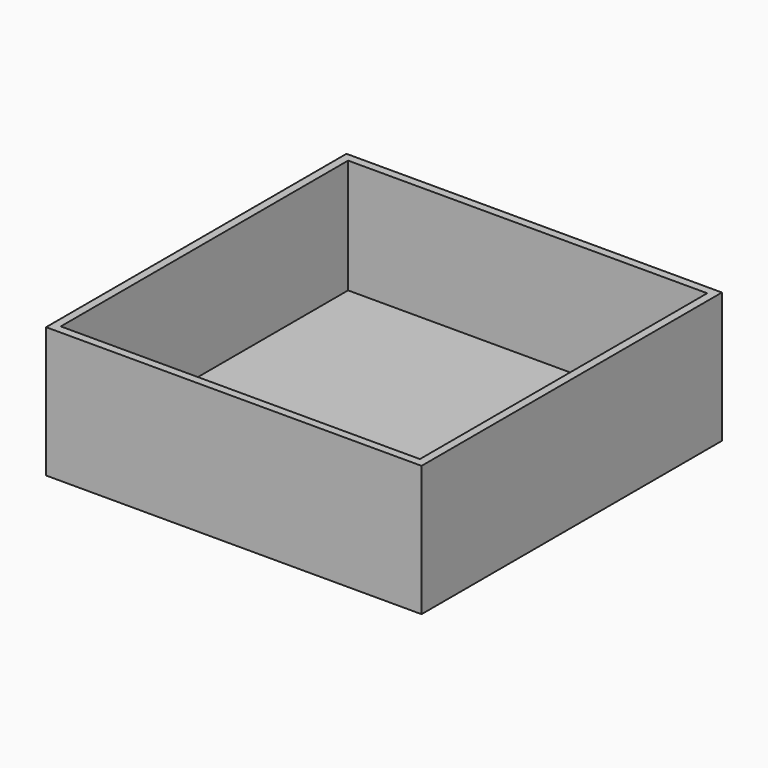
from build123d import *

# Parameters (mm, degrees)
F0_W     = 146.05
F0_H     = 146.05
F0_W_2   = 139.7
F0_H_2   = 139.7
F1_DEPTH = 50.8
F0_W_3   = 134.62
F0_H_3   = 134.62
F2_DEPTH = 6.35


with BuildPart() as f1:
    # F0 (on Top) → F1 (new body)
    with BuildSketch(Plane.XY):
        Rectangle(F0_W, F0_H)
        Rectangle(F0_W_2, F0_H_2, mode=Mode.SUBTRACT)
    extrude(amount=F1_DEPTH)

    # F0 (on Top) → F2 (join)
    with BuildSketch(Plane.XY):
        Rectangle(F0_W_2, F0_H_2)
        Rectangle(F0_W_3, F0_H_3, mode=Mode.SUBTRACT)
        Rectangle(F0_W_3, F0_H_3)
    extrude(amount=F2_DEPTH)


solid = f1.part
